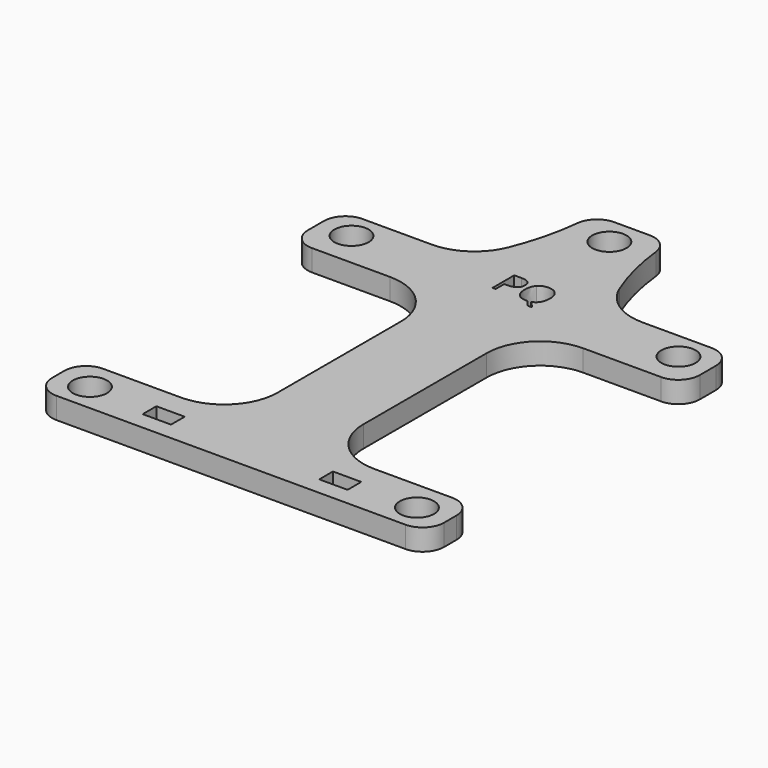
from build123d import *

# Parameters (mm, degrees)
F0_R     = 1.6
F0_W     = 2.644199878
F0_H     = 1.5956377611
F1_DEPTH = 2
F2_R     = 2
F3_R     = 2


with BuildPart() as f1:
    # F0 (on Top) → F1 (new body)
    with BuildSketch(Plane.XY):
        with BuildLine():
            Line((10.0678037852, 41.4781346917), (10.0678037852, 40.3846651316))
            Line((10.0678037852, 40.3846651316), (10.0678037852, 35.5912074447))
            Line((10.0678037852, 35.5912074447), (19.349999167, 35.5912074447))
            ThreePointArc((19.349999167, 35.5912074447), (22.885533073, 34.1267413506), (24.349999167, 30.5912074447))
            Line((24.349999167, 30.5912074447), (24.349999167, 16.2233320251))
            ThreePointArc((24.349999167, 16.2233320251), (22.885533073, 12.6877981192), (19.349999167, 11.2233320251))
            Line((19.349999167, 11.2233320251), (10.0678037852, 11.2233320251))
            Line((10.0678037852, 11.2233320251), (10.0678037852, 5.7744667865))
            Line((10.0678037852, 5.7744667865), (46.6321945488, 5.7744667865))
            Line((46.6321945488, 5.7744667865), (46.6321945488, 11.2233320251))
            Line((46.6321945488, 11.2233320251), (37.349999167, 11.2233320251))
            ThreePointArc((37.349999167, 11.2233320251), (33.8144652611, 12.6877981192), (32.349999167, 16.2233320251))
            Line((32.349999167, 16.2233320251), (32.349999167, 24.7527061179))
            Line((32.349999167, 24.7527061179), (32.349999167, 30.5912074447))
            ThreePointArc((32.349999167, 30.5912074447), (33.8144652611, 34.1267413506), (37.349999167, 35.5912074447))
            Line((37.349999167, 35.5912074447), (46.6321945488, 35.5912074447))
            Line((46.6321945488, 35.5912074447), (46.6321945488, 40.3846651316))
            Line((46.6321945488, 40.3846651316), (46.6321945488, 41.4781346917))
            Line((46.6321945488, 41.4781346917), (38.1808124264, 41.4781346917))
            ThreePointArc((38.1808124264, 41.4781346917), (35.3876764753, 42.3310403404), (33.5474530963, 44.5987780681))
            ThreePointArc((33.5474530963, 44.5987780681), (32.3571350428, 48.4950101781), (31.87418136, 52.5402836502))
            Line((31.87418136, 52.5402836502), (28.349999167, 52.5402836502))
            Line((28.349999167, 52.5402836502), (24.825816974, 52.5402836502))
            ThreePointArc((24.825816974, 52.5402836502), (24.3428632913, 48.4950101781), (23.1525452378, 44.5987780681))
            ThreePointArc((23.1525452378, 44.5987780681), (21.3123218588, 42.3310403404), (18.5191859077, 41.4781346917))
            Line((18.5191859077, 41.4781346917), (10.0678037852, 41.4781346917))
        make_face()
        with Locations((13.099999167, 8.40333011)):
            Circle(F0_R, mode=Mode.SUBTRACT)
        with Locations((20.1146285981, 8.2314335741)):
            Rectangle(F0_W, F0_H, mode=Mode.SUBTRACT)
        with Locations((36.585369736, 8.2314335741)):
            Rectangle(F0_W, F0_H, mode=Mode.SUBTRACT)
        with Locations((43.599999167, 8.40333011)):
            Circle(F0_R, mode=Mode.SUBTRACT)
        with Locations((13.099999167, 38.90333011)):
            Circle(F0_R, mode=Mode.SUBTRACT)
        with BuildLine():
            add(Edge.make_bspline(
                [(26.9028567943, 41.4408115782), (27.8500015435, 41.4408115782), (27.8500015435, 40.7044507948)],
                knots=[0, 0, 0, 1, 1, 1], degree=2))
            add(Edge.make_bspline(
                [(27.8500015435, 40.7044507948), (27.8500015435, 40.3205030986), (27.5880429928, 40.1138684235)],
                knots=[0, 0, 0, 1, 1, 1], degree=2))
            add(Edge.make_bspline(
                [(27.5880429928, 40.1138684235), (27.3260844422, 39.9072337483), (26.8386810987, 39.9072337483)],
                knots=[0, 0, 0, 1, 1, 1], degree=2))
            Line((26.8386810987, 39.9072337483), (26.5410386483, 39.9072337483))
            Line((26.5410386483, 39.9072337483), (26.5410386483, 38.913063705))
            Line((26.5410386483, 38.913063705), (26.2472688693, 38.913063705))
            Line((26.2472688693, 38.913063705), (26.2472688693, 41.4408115782))
            Line((26.2472688693, 41.4408115782), (26.9028567943, 41.4408115782))
        make_face(mode=Mode.SUBTRACT)
        with Locations((28.349999167, 49.90333011)):
            Circle(F0_R, mode=Mode.SUBTRACT)
        with BuildLine():
            add(Edge.make_bspline(
                [(30.2671016656, 41.1348705465), (30.5730426973, 40.7890963244), (30.5730426973, 40.1805336935)],
                knots=[0, 0, 0, 1, 1, 1], degree=2))
            add(Edge.make_bspline(
                [(30.5730426973, 40.1805336935), (30.5730426973, 39.6947900663), (30.3777494167, 39.37308173)],
                knots=[0, 0, 0, 1, 1, 1], degree=2))
            add(Edge.make_bspline(
                [(30.3777494167, 39.37308173), (30.1824561361, 39.0513733938), (29.8261703776, 38.9374062102)],
                knots=[0, 0, 0, 1, 1, 1], degree=2))
            Line((29.8261703776, 38.9374062102), (30.4275409047, 38.3111399391))
            Line((30.4275409047, 38.3111399391), (30.0004405856, 38.3111399391))
            Line((30.0004405856, 38.3111399391), (29.5080580933, 38.8820823347))
            Line((29.5080580933, 38.8820823347), (29.4129010274, 38.8782096634))
            add(Edge.make_bspline(
                [(29.4129010274, 38.8782096634), (28.8546831232, 38.8782096634), (28.5512316659, 39.2198345948)],
                knots=[0, 0, 0, 1, 1, 1], degree=2))
            add(Edge.make_bspline(
                [(28.5512316659, 39.2198345948), (28.2477802086, 39.5614595262), (28.2477802086, 40.183853126)],
                knots=[0, 0, 0, 1, 1, 1], degree=2))
            add(Edge.make_bspline(
                [(28.2477802086, 40.183853126), (28.2477802086, 40.801267577), (28.552061524, 41.1409561728)],
                knots=[0, 0, 0, 1, 1, 1], degree=2))
            add(Edge.make_bspline(
                [(28.552061524, 41.1409561728), (28.8563428395, 41.4806447686), (29.4162204599, 41.4806447686)],
                knots=[0, 0, 0, 1, 1, 1], degree=2))
            add(Edge.make_bspline(
                [(29.4162204599, 41.4806447686), (29.9611606339, 41.4806447686), (30.2671016656, 41.1348705465)],
                knots=[0, 0, 0, 1, 1, 1], degree=2))
        make_face(mode=Mode.SUBTRACT)
        with Locations((43.599999167, 38.90333011)):
            Circle(F0_R, mode=Mode.SUBTRACT)
    extrude(amount=F1_DEPTH)

    # F2
    f2_edges = [f1.edges().sort_by_distance(p)[0] for p in [
        (46.632195, 5.774467, 1),
        (10.067804, 5.774467, 1),
        (10.067804, 35.591207, 1),
        (46.632195, 35.591207, 1),
    ]]
    fillet(f2_edges, radius=F2_R)

    # F3
    f3_edges = [f1.edges().sort_by_distance(p)[0] for p in [
        (10.067804, 41.478135, 1),
        (46.632195, 41.478135, 1),
        (46.632195, 11.223332, 1),
        (10.067804, 11.223332, 1),
        (24.825817, 52.540284, 1),
        (31.874181, 52.540284, 1),
    ]]
    fillet(f3_edges, radius=F3_R)


solid = f1.part
